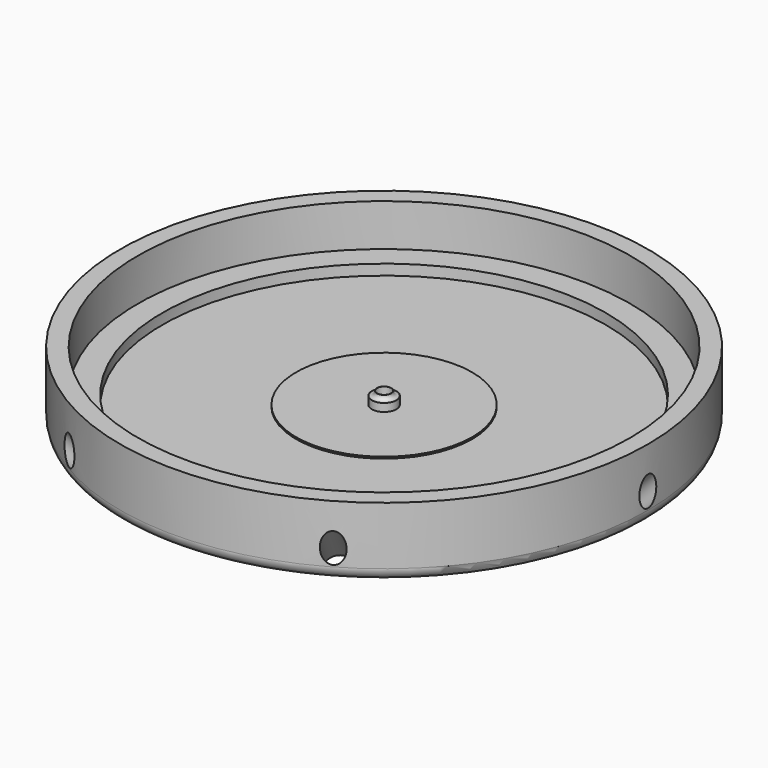
from build123d import *

# Parameters (mm, degrees)
CYLINDER018_R               = 0.6
CYLINDER018_DEPTH           = 30
CYLINDER018_PLACEMENT_ANGLE = 45
ARRAY_COUNT                 = 6
CYLINDER014_R               = 0.4
CYLINDER014_DEPTH           = 2
CYLINDER012_R               = 0.41
CYLINDER012_DEPTH           = 0.8
CYLINDER013_R               = 0.7
CYLINDER013_DEPTH           = 0.55
FILLET003_R                 = 0.24
CYLINDER015_R               = 5
CYLINDER015_DEPTH           = 0.1
CYLINDER008_R               = 16
CYLINDER008_DEPTH           = 10
CYLINDER007_R               = 14
CYLINDER007_DEPTH           = 6.4
CYLINDER006_R               = 14
CYLINDER006_DEPTH           = 1
CYLINDER005_R               = 0.4
CYLINDER005_DEPTH           = 1
CYLINDER001_R               = 12.6
CYLINDER001_DEPTH           = 8
CYLINDER_R                  = 15
CYLINDER_DEPTH              = 8
CYLINDER002_R               = 15
CYLINDER002_DEPTH           = 1
FILLET_R                    = 0.7
FILLET001_R                 = 0.7
CHAMFER_SIZE                = 0.8


with BuildPart() as array:
    # Cylinder018 → Cylinder018 (new body)
    with BuildSketch(Plane.XY):
        Circle(CYLINDER018_R)
    extrude(amount=CYLINDER018_DEPTH)


with BuildPart() as array_1:
    # Cylinder018 placement: moved
    add(array.part.moved(Location((0, 0, -4.5))).rotate(Axis((0, 0, -4.5), (0, 1, 0)), CYLINDER018_PLACEMENT_ANGLE))

    # Array: Array ×6 about axis
    array_axis = Axis((0, 0, 0), (0, 0, 1))


with BuildPart() as array_2:
    add(array_1.part)
    for i in range(1, ARRAY_COUNT):
        add(array_1.part.rotate(array_axis, i * 360 / ARRAY_COUNT))


with BuildPart() as array_3:
    # Array placement: moved
    add(array_2.part.moved(Location((0, 0, -8.85))))


with BuildPart() as cylinder014:
    # Cylinder014 → Cylinder014 (new body)
    with BuildSketch(Plane.XY.offset(1)):
        Circle(CYLINDER014_R)
    extrude(amount=CYLINDER014_DEPTH)


with BuildPart() as cylinder012:
    # Cylinder012 → Cylinder012 (new body)
    with BuildSketch(Plane.XY.offset(1)):
        Circle(CYLINDER012_R)
    extrude(amount=CYLINDER012_DEPTH)


with BuildPart() as fillet003:
    # Cylinder013 → Cylinder013 (new body)
    with BuildSketch(Plane.XY.offset(1)):
        Circle(CYLINDER013_R)
    extrude(amount=CYLINDER013_DEPTH)

    # Fusion001: union Cylinder012
    add(cylinder012.part)

    # Fillet003
    fillet003_edges = [fillet003.edges().sort_by_distance(p)[0] for p in [
        (-0.41, 0, 1.55),
    ]]
    fillet(fillet003_edges, radius=FILLET003_R)


with BuildPart() as cut006:
    # Cylinder015 → Cylinder015 (new body)
    with BuildSketch(Plane.XY.offset(1)):
        Circle(CYLINDER015_R)
    extrude(amount=CYLINDER015_DEPTH)

    # Fusion002: union Fillet003
    add(fillet003.part)

    # Cut006: cut Cylinder014
    add(cylinder014.part, mode=Mode.SUBTRACT)


with BuildPart() as cylinder008:
    # Cylinder008 → Cylinder008 (new body)
    with BuildSketch(Plane.XY.offset(4)):
        Circle(CYLINDER008_R)
    extrude(amount=CYLINDER008_DEPTH)


with BuildPart() as cylinder007:
    # Cylinder007 → Cylinder007 (new body)
    with BuildSketch(Plane.XY.offset(1.6)):
        Circle(CYLINDER007_R)
    extrude(amount=CYLINDER007_DEPTH)


with BuildPart() as cylinder006:
    # Cylinder006 → Cylinder006 (new body)
    with BuildSketch(Plane.XY.offset(7)):
        Circle(CYLINDER006_R)
    extrude(amount=CYLINDER006_DEPTH)


with BuildPart() as cylinder005:
    # Cylinder005 → Cylinder005 (new body)
    with BuildSketch(Plane.XY):
        Circle(CYLINDER005_R)
    extrude(amount=CYLINDER005_DEPTH)


with BuildPart() as cylinder001:
    # Cylinder001 → Cylinder001 (new body)
    with BuildSketch(Plane.XY):
        Circle(CYLINDER001_R)
    extrude(amount=CYLINDER001_DEPTH)


with BuildPart() as cut:
    # Cylinder → Cylinder (new body)
    with BuildSketch(Plane.XY):
        Circle(CYLINDER_R)
    extrude(amount=CYLINDER_DEPTH)

    # Cut: cut Cylinder001
    add(cylinder001.part, mode=Mode.SUBTRACT)


with BuildPart() as cut009:
    # Cylinder002 → Cylinder002 (new body)
    with BuildSketch(Plane.XY):
        Circle(CYLINDER002_R)
    extrude(amount=CYLINDER002_DEPTH)

    # Fusion: union Cut
    add(cut.part)

    # Cut001: cut Cylinder005
    add(cylinder005.part, mode=Mode.SUBTRACT)

    # Cut003: cut Cylinder006
    add(cylinder006.part, mode=Mode.SUBTRACT)

    # Fillet
    fillet_edges = [cut009.edges().sort_by_distance(p)[0] for p in [
        (-15, 0, 8),
    ]]
    fillet(fillet_edges, radius=FILLET_R)

    # Fillet001
    fillet001_edges = [cut009.edges().sort_by_distance(p)[0] for p in [
        (-15, 0, 0),
    ]]
    fillet(fillet001_edges, radius=FILLET001_R)

    # Chamfer
    chamfer_edges = [cut009.edges().sort_by_distance(p)[0] for p in [
        (-0.4, 0, 0),
    ]]
    chamfer(chamfer_edges, length=CHAMFER_SIZE)

    # Cut007: cut Cylinder007
    add(cylinder007.part, mode=Mode.SUBTRACT)

    # Cut008: cut Cylinder008
    add(cylinder008.part, mode=Mode.SUBTRACT)

    # Fusion003: union Cut006
    add(cut006.part)

    # Cut009: cut Array
    add(array_3.part, mode=Mode.SUBTRACT)


solid = cut009.part
